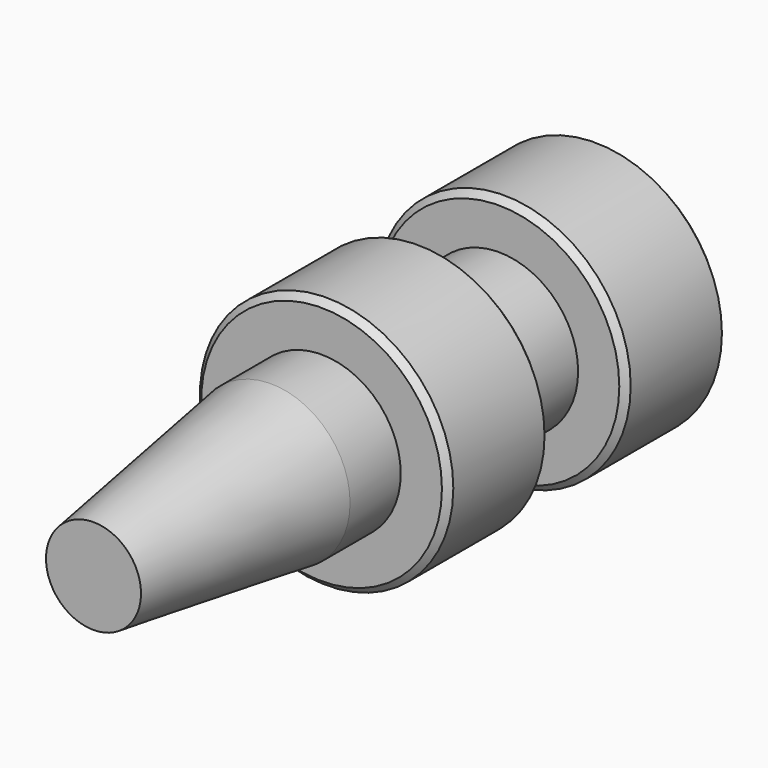
from build123d import *

# Parameters (mm, degrees)
F0_R       = 20
F1_DEPTH   = 20
F2_R       = 12.5
F3_DEPTH   = 15
F4_R       = 20
F4_R_2     = 12.5
F5_DEPTH   = 20
F6_R       = 12.5
F7_DEPTH   = 10
F8_R       = 12.5
F10_R      = 7.5
F12_SIZE   = 1
F12_2_SIZE = 1
F13_R      = 17.5
F14_DEPTH  = 15
F15_R      = 5.1
F16_DEPTH  = 55


with BuildPart() as f1:
    # F0 (on Front) → F1 (new body)
    with BuildSketch(Plane.XZ):
        Circle(F0_R)
    extrude(amount=F1_DEPTH)

    # F12
    f12_edges = [f1.edges().sort_by_distance(p)[0] for p in [
        (-20, 0, 0),
        (-20, -20, 0),
    ]]
    chamfer(f12_edges, length=F12_SIZE)

    # F13 (on face) → F14 (cut)
    with BuildSketch(Plane(origin=(0, 0, 0), x_dir=(-1, 0, 0), z_dir=(0, 1, 0))):
        Circle(F13_R)
    extrude(amount=-F14_DEPTH, mode=Mode.SUBTRACT)


with BuildPart() as f3:
    # F2 (on face) → F3 (new body)
    with BuildSketch(Plane.XZ.offset(20)):
        Circle(F2_R)
    extrude(amount=F3_DEPTH)

    # F4 (on face) → F5 (join)
    with BuildSketch(Plane.XZ.offset(35)):
        Circle(F4_R)
        Circle(F4_R_2, mode=Mode.SUBTRACT)
        Circle(F4_R_2)
    extrude(amount=F5_DEPTH)

    # F6 (on face) → F7 (join)
    with BuildSketch(Plane.XZ.offset(55)):
        Circle(F6_R)
    extrude(amount=F7_DEPTH)

    # F8 (on face) → F11 section 0
    with BuildSketch(Plane.XZ.offset(65)):
        Circle(F8_R)
    # F10 (on offset) → F11 section 1
    with BuildSketch(Plane.XZ.offset(100)):
        Circle(F10_R)
    loft()

    # F12#2
    f12_2_edges = [f3.edges().sort_by_distance(p)[0] for p in [
        (-20, -35, 0),
        (-20, -55, 0),
    ]]
    chamfer(f12_2_edges, length=F12_2_SIZE)


with BuildPart() as f16_tool:
    # F15 (on face) → F16 (new body)
    with BuildSketch(Plane(origin=(0, -15, 0), x_dir=(-1, 0, 0), z_dir=(0, 1, 0))):
        Circle(F15_R)
    extrude(amount=-F16_DEPTH)


with BuildPart() as f1_1:
    add(f1.part)

    # F16: cut by f16_tool
    add(f16_tool.part, mode=Mode.SUBTRACT)


with BuildPart() as f3_1:
    add(f3.part)

    # F16: cut by f16_tool
    add(f16_tool.part, mode=Mode.SUBTRACT)


solid = Compound([f1_1.part, f3_1.part])
